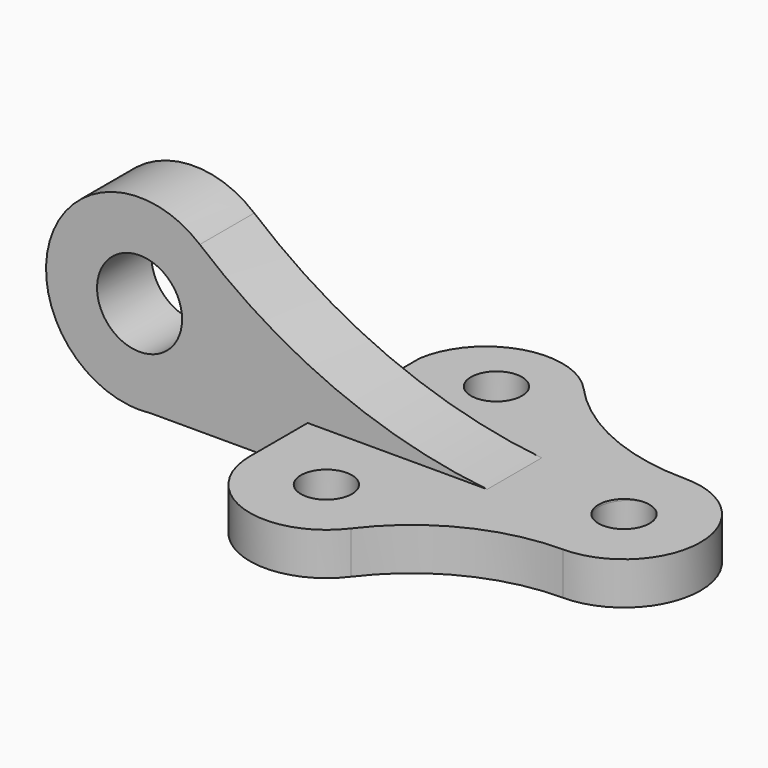
from build123d import *

# Parameters (mm, degrees)
F0_R          = 6
F1_DEPTH      = 10
F2_R          = 10
F3_DEPTH      = 8
F3_DEPTH_BACK = 8
F4_R          = 6
F5_DEPTH      = 25


with BuildPart() as f1:
    # F0 (on Top) → F1 (new body)
    with BuildSketch(Plane.XY):
        with BuildLine():
            ThreePointArc((-35.6, -35.8), (-19.901005, -22.69799), (0, -18))
            ThreePointArc((0, -18), (18, 0), (0, 18))
            ThreePointArc((0, 18), (-20.182572, 22.254358), (-36.930589, 34.293449))
            ThreePointArc((-36.930589, 34.293449), (-55.383923, 39.40414), (-68, 25))
            Line((-68, 25), (-68, -25))
            ThreePointArc((-68, -25), (-55.6921, -42.076299), (-35.6, -35.8))
        make_face()
        with Locations((-50, -25)):
            Circle(F0_R, mode=Mode.SUBTRACT)
        with Locations((-50, 25)):
            Circle(F0_R, mode=Mode.SUBTRACT)
        Circle(F0_R, mode=Mode.SUBTRACT)
    extrude(amount=F1_DEPTH)

    # F2 (on Front) → F3 (join, two sides)
    with BuildSketch(Plane.XZ) as f3_sk:
        with BuildLine():
            Line((-105.07352, 0), (-6, 0))
            Line((-6, 0), (-6, 9.523888))
            ThreePointArc((-6, 9.523888), (-15.894485, 9.37036), (-25.770109, 10))
            ThreePointArc((-25.770109, 10), (-61.725464, 19.270605), (-93.371199, 38.69428))
            ThreePointArc((-93.371199, 38.69428), (-127.749328, 30.547983), (-110, 0))
            Line((-110, 0), (-105.07352, 0))
        make_face()
        with Locations((-107.53676, 21.861666)):
            Circle(F2_R, mode=Mode.SUBTRACT)
        with BuildLine():
            ThreePointArc((-25.770109, 10), (-15.894485, 9.37036), (-6, 9.523888))
            Line((-6, 9.523888), (-6, 10))
            Line((-6, 10), (-25.770109, 10))
        make_face()
        with BuildLine():
            Line((-6, 10), (-6, 9.523888))
            ThreePointArc((-6, 9.523888), (-2.997134, 9.725826), (0, 10))
            Line((0, 10), (-6, 10))
        make_face()
        with BuildLine():
            ThreePointArc((-110, 0), (-107.53676, -0.138334), (-105.07352, 0))
            Line((-105.07352, 0), (-110, 0))
        make_face()
    extrude(amount=F3_DEPTH)
    extrude(f3_sk.sketch, amount=-F3_DEPTH_BACK)

    # F4 (on face) → F5 (cut)
    with BuildSketch(Plane(origin=(0, 0, 0), x_dir=(1, 0, 0), z_dir=(0, 0, -1))):
        Circle(F4_R)
    extrude(amount=-F5_DEPTH, mode=Mode.SUBTRACT)


solid = f1.part
